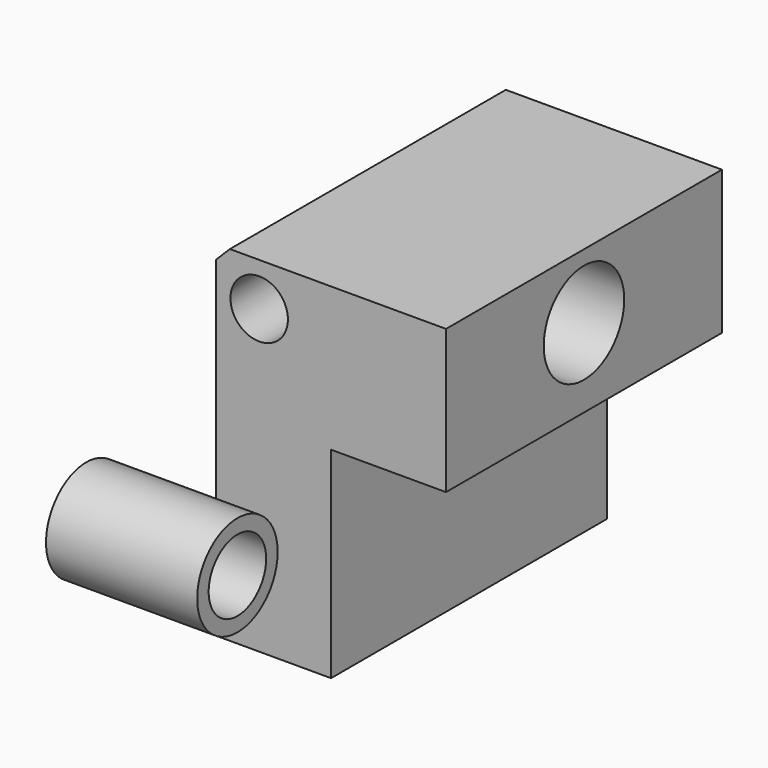
from build123d import *

# Parameters (mm, degrees)
F0_R      = 6.35
F1_DEPTH  = 76.2
F2_R      = 11.1125
F3_DEPTH  = 50.801
F4_R      = 6.35
F5_DEPTH  = 25.4
F6_R      = 6.35
F7_DEPTH  = 25.4
F8_R      = 3.175
F9_DEPTH  = 25.4
F10_SIZE  = 3.048
F12_R     = 3.175
F13_DEPTH = 25.4
F14_R     = 11.1125
F14_R_2   = 7.9375
F15_DEPTH = 33.401


with BuildPart() as f1:
    # F0 (on Front) → F1 (new body)
    with BuildSketch(Plane.XZ):
        Polygon((-25.4, -50.8), (0, -50.8), (0, -6.35), (25.4, -6.35), (25.4, 25.4), (-25.4, 25.4), align=None)
        with Locations((-15.875, 15.875)):
            Circle(F0_R, mode=Mode.SUBTRACT)
        with Locations((-15.875, 15.875)):
            Circle(F0_R)
    extrude(amount=F1_DEPTH)

    # F2 (on face) → F3 (cut, through all)
    with BuildSketch(Plane.YZ.offset(25.4)):
        with Locations((-38.1, 11.1125)):
            Circle(F2_R)
    extrude(amount=-F3_DEPTH, mode=Mode.SUBTRACT)

    # F4 (on face) → F5 (cut)
    with BuildSketch(Plane.XZ.offset(76.2)):
        with Locations((-15.875, 15.875)):
            Circle(F4_R)
    extrude(amount=-F5_DEPTH, mode=Mode.SUBTRACT)

    # F6 (on face) → F7 (cut)
    with BuildSketch(Plane(origin=(0, 0, 0), x_dir=(-1, 0, 0), z_dir=(0, 1, 0))):
        with Locations((15.875, 15.875)):
            Circle(F6_R)
    extrude(amount=-F7_DEPTH, mode=Mode.SUBTRACT)

    # F8 (on face) → F9 (cut)
    with BuildSketch(Plane(origin=(0, 0, -50.8), x_dir=(1, 0, 0), z_dir=(0, 0, -1))):
        with Locations((-12.7, 63.5)):
            Circle(F8_R)
        with Locations((-12.7, 12.7)):
            Circle(F8_R)
    extrude(amount=-F9_DEPTH, mode=Mode.SUBTRACT)

    # F10
    f10_edges = [f1.edges().sort_by_distance(p)[0] for p in [
        (-25.4, -38.1, 25.4),
    ]]
    chamfer(f10_edges, length=F10_SIZE)

    # F12 (on face) → F13 (cut, symmetric)
    with BuildSketch(Plane(origin=(2.983524, 0, -4.260914), x_dir=(0.819152, 0, 0.573576), z_dir=(0.573576, 0, -0.819152))):
        with Locations((-3.64221, 63.5)):
            Circle(F12_R)
        with Locations((-3.64221, 12.7)):
            Circle(F12_R)
    extrude(amount=F13_DEPTH, both=True, mode=Mode.SUBTRACT)


with BuildPart() as f15:
    # F14 (on Right) → F15 (new body)
    with BuildSketch(Plane.YZ):
        with Locations((-143.806458, 7.574418)):
            Circle(F14_R)
        with Locations((-143.806458, 7.574418)):
            Circle(F14_R_2, mode=Mode.SUBTRACT)
    extrude(amount=F15_DEPTH)


solid = Compound([f1.part, f15.part])
